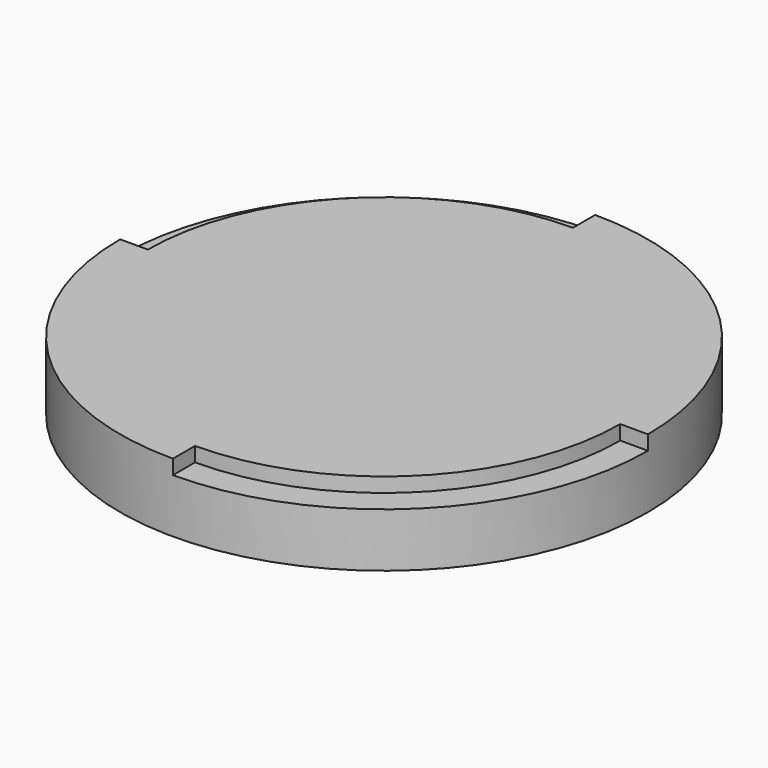
from build123d import *

# Parameters (mm, degrees)
F0_R     = 20
F0_R_2   = 10.1
F1_DEPTH = 2
F2_DEPTH = 4.2
F3_R     = 20
F3_R_2   = 10.1
F4_DEPTH = 1
F6_DEPTH = 1.1


with BuildPart() as f1:
    # F0 (on Top) → F1 (new body)
    with BuildSketch(Plane.XY):
        Circle(F0_R)
        Circle(F0_R_2, mode=Mode.SUBTRACT)
        Circle(F0_R_2)
    extrude(amount=F1_DEPTH)

    # F0 (on Top) → F2 (join)
    with BuildSketch(Plane.XY):
        Circle(F0_R)
        Circle(F0_R_2, mode=Mode.SUBTRACT)
    extrude(amount=F2_DEPTH)

    # F3 (on face) → F4 (join)
    with BuildSketch(Plane.XY.offset(4.2)):
        Circle(F3_R)
        Circle(F3_R_2, mode=Mode.SUBTRACT)
        Circle(F3_R_2)
    extrude(amount=F4_DEPTH)

    # F5 (on face) → F6 (cut)
    with BuildSketch(Plane.XY.offset(5.2)):
        with BuildLine():
            ThreePointArc((0, 20), (-14.1421356237, 14.1421356237), (-20, 0))
            Line((-20, 0), (-17.9, 0))
            ThreePointArc((-17.9, 0), (-12.6572113832, 12.6572113832), (0, 17.9))
            Line((0, 17.9), (0, 20))
        make_face()
        with BuildLine():
            Line((0, -17.9), (0, -20))
            ThreePointArc((0, -20), (14.1421356237, -14.1421356237), (20, 0))
            Line((20, 0), (17.9, 0))
            ThreePointArc((17.9, 0), (12.6572113832, -12.6572113832), (0, -17.9))
        make_face()
    extrude(amount=-F6_DEPTH, mode=Mode.SUBTRACT)


solid = f1.part
